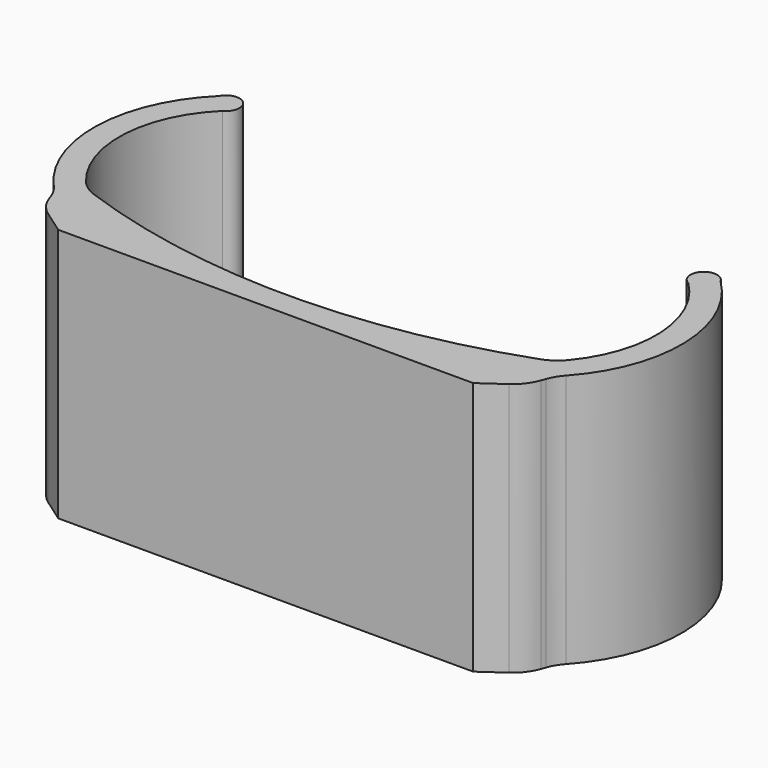
from build123d import *

# Parameters (mm, degrees)
F1_DEPTH = 30
F2_SIZE  = 3
F3_R     = 5


with BuildPart() as f1:
    # F0 (on Top) → F1 (new body)
    with BuildSketch(Plane.XY):
        with BuildLine():
            Line((-29.235905425, 4.8452048085), (-27.5, 0))
            Line((-27.5, 0), (27.5, 0))
            Line((27.5, 0), (29.235905425, 4.8452048085))
            ThreePointArc((29.235905425, 4.8452048085), (29.6607503771, 5.7400765845), (30.2536774297, 6.533629506))
            ThreePointArc((30.2536774297, 6.533629506), (34.7005588033, 18.4719723629), (29.5974730182, 30.1449025686))
            ThreePointArc((29.5974730182, 30.1449025686), (27.0806665873, 30.5080582414), (27.5, 28))
            ThreePointArc((27.5, 28), (31.6871939258, 18.746306096), (28.5098241443, 9.0991425174))
            ThreePointArc((28.5098241443, 9.0991425174), (27.527116318, 8.1895587275), (26.3382475055, 7.5734026682))
            ThreePointArc((26.3382475055, 7.5734026682), (0.0002388204, 3.0000000025), (-26.337843619, 7.5729779002))
            ThreePointArc((-26.337843619, 7.5729779002), (-27.5266380589, 8.1890555536), (-28.5093137303, 9.0985237608))
            ThreePointArc((-28.5093137303, 9.0985237608), (-31.6872153169, 18.7459056114), (-27.5, 28))
            ThreePointArc((-27.5, 28), (-27.0806665873, 30.5080582414), (-29.5974730182, 30.1449025686))
            ThreePointArc((-29.5974730182, 30.1449025686), (-34.7005588033, 18.4719723629), (-30.2536774297, 6.533629506))
            ThreePointArc((-30.2536774297, 6.533629506), (-29.6607503771, 5.7400765845), (-29.235905425, 4.8452048085))
        make_face()
    extrude(amount=F1_DEPTH)

    # F2
    f2_edges = [f1.edges().sort_by_distance(p)[0] for p in [
        (-27.5, 0, 15),
        (27.5, 0, 15),
    ]]
    chamfer(f2_edges, length=F2_SIZE)

    # F3
    f3_edges = [f1.edges().sort_by_distance(p)[0] for p in [
        (-28.511839, 2.824213, 15),
        (28.511839, 2.824213, 15),
    ]]
    fillet(f3_edges, radius=F3_R)


solid = f1.part
